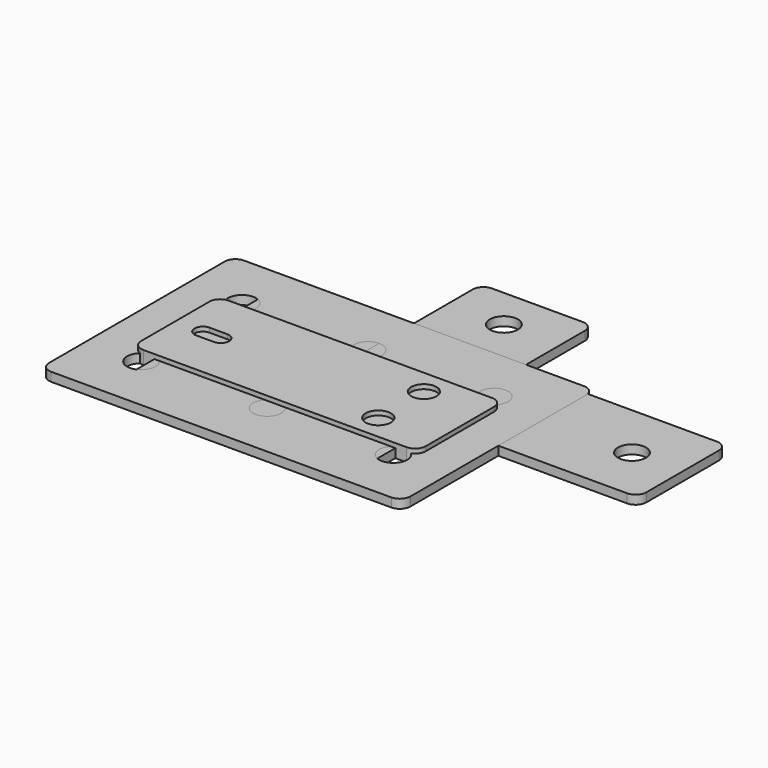
from build123d import *

# Parameters (mm, degrees)
SKETCH_R     = 5
PAD_DEPTH    = 3.175
SKETCH001_R  = 5
PAD001_DEPTH = 3.175
SKETCH002_R  = 5
PAD002_DEPTH = 3.175
SKETCH003_R  = 4.5
PAD003_DEPTH = 4.7625


with BuildPart() as f_4_hole_plate:
    # Sketch → Pad (new body)
    with BuildSketch(Plane.XY):
        with BuildLine():
            Line((-39.19, 43), (39.19, 43))
            ThreePointArc((43, 39.19), (41.884077, 41.884077), (39.19, 43))
            Line((43, 39.19), (43, -39.19))
            ThreePointArc((39.19, -43), (41.884077, -41.884077), (43, -39.19))
            Line((39.19, -43), (-39.19, -43))
            ThreePointArc((-43, -39.19), (-41.884077, -41.884077), (-39.19, -43))
            Line((-43, -39.19), (-43, 39.19))
            ThreePointArc((-39.19, 43), (-41.884077, 41.884077), (-43, 39.19))
        make_face()
        with Locations((-22.5, 22.5)):
            Circle(SKETCH_R, mode=Mode.SUBTRACT)
        with Locations((22.5, 22.5)):
            Circle(SKETCH_R, mode=Mode.SUBTRACT)
        with Locations((22.5, -22.5)):
            Circle(SKETCH_R, mode=Mode.SUBTRACT)
        with Locations((-22.5, -22.5)):
            Circle(SKETCH_R, mode=Mode.SUBTRACT)
    extrude(amount=PAD_DEPTH)


with BuildPart() as l_bracket:
    # Sketch001 → Pad001 (new body)
    with BuildSketch(Plane.XY):
        with BuildLine():
            Line((0, 69.215), (0, 3.81))
            ThreePointArc((0, 3.81), (1.115923, 1.115923), (3.81, 0))
            Line((3.81, 0), (110.49, 0))
            ThreePointArc((110.49, 0), (113.184077, 1.115923), (114.3, 3.81))
            Line((114.3, 3.81), (114.3, 36.19))
            ThreePointArc((114.3, 36.19), (113.184077, 38.884077), (110.49, 40))
            Line((110.49, 40), (43.81, 40))
            ThreePointArc((40, 43.81), (41.115923, 41.115923), (43.81, 40))
            Line((40, 43.81), (40, 69.215))
            ThreePointArc((40, 69.215), (38.884077, 71.909077), (36.19, 73.025))
            Line((36.19, 73.025), (3.81, 73.025))
            ThreePointArc((3.81, 73.025), (1.115923, 71.909077), (0, 69.215))
        make_face()
        with Locations((20, 58.1)):
            Circle(SKETCH001_R, mode=Mode.SUBTRACT)
        with Locations((20, 20)):
            Circle(SKETCH001_R, mode=Mode.SUBTRACT)
        with Locations((58.1, 20)):
            Circle(SKETCH001_R, mode=Mode.SUBTRACT)
        with Locations((96.2, 20)):
            Circle(SKETCH001_R, mode=Mode.SUBTRACT)
    extrude(amount=PAD001_DEPTH)


with BuildPart() as f_6_hole_plate002:
    # Sketch002 → Pad002 (new body)
    with BuildSketch(Plane.XY):
        with BuildLine():
            Line((-60.69, 43), (60.69, 43))
            ThreePointArc((64.5, 39.19), (63.384077, 41.884077), (60.69, 43))
            Line((64.5, 39.19), (64.5, -39.19))
            ThreePointArc((60.69, -43), (63.384077, -41.884077), (64.5, -39.19))
            Line((60.69, -43), (-60.69, -43))
            ThreePointArc((-64.5, -39.19), (-63.384077, -41.884077), (-60.69, -43))
            Line((-64.5, -39.19), (-64.5, 39.19))
            ThreePointArc((-60.69, 43), (-63.384077, 41.884077), (-64.5, 39.19))
        make_face()
        with Locations((-45, 22.5)):
            Circle(SKETCH002_R, mode=Mode.SUBTRACT)
        with Locations((0, 22.5)):
            Circle(SKETCH002_R, mode=Mode.SUBTRACT)
        with Locations((0, -22.5)):
            Circle(SKETCH002_R, mode=Mode.SUBTRACT)
        with Locations((-45, -22.5)):
            Circle(SKETCH002_R, mode=Mode.SUBTRACT)
        with Locations((45, 22.5)):
            Circle(SKETCH002_R, mode=Mode.SUBTRACT)
        with Locations((45, -22.5)):
            Circle(SKETCH002_R, mode=Mode.SUBTRACT)
    extrude(amount=PAD002_DEPTH)


with BuildPart() as window_trolley_bracket:
    # Sketch003 → Pad003 (new body)
    with BuildSketch(Plane.XY):
        with BuildLine():
            Line((-46.99, 19.05), (46.99, 19.05))
            ThreePointArc((50.8, 15.24), (49.684077, 17.934077), (46.99, 19.05))
            Line((50.8, 15.24), (50.8, -15.24))
            ThreePointArc((46.99, -19.05), (49.684077, -17.934077), (50.8, -15.24))
            Line((46.99, -19.05), (-46.99, -19.05))
            ThreePointArc((-50.8, -15.24), (-49.684077, -17.934077), (-46.99, -19.05))
            Line((-50.8, -15.24), (-50.8, 15.24))
            ThreePointArc((-46.99, 19.05), (-49.684077, 17.934077), (-50.8, 15.24))
        make_face()
        with Locations((29.8, 10.16)):
            Circle(SKETCH003_R, mode=Mode.SUBTRACT)
        with Locations((29.8, -10.16)):
            Circle(SKETCH003_R, mode=Mode.SUBTRACT)
        with BuildLine():
            ThreePointArc((-40.939, 3), (-43.939, 0), (-40.939, -3))
            Line((-40.939, -3), (-34.589, -3))
            ThreePointArc((-34.589, -3), (-31.589, 0), (-34.589, 3))
            Line((-34.589, 3), (-40.939, 3))
        make_face(mode=Mode.SUBTRACT)
    extrude(amount=PAD003_DEPTH)


solid = Compound([f_4_hole_plate.part, l_bracket.part, f_6_hole_plate002.part, window_trolley_bracket.part])
